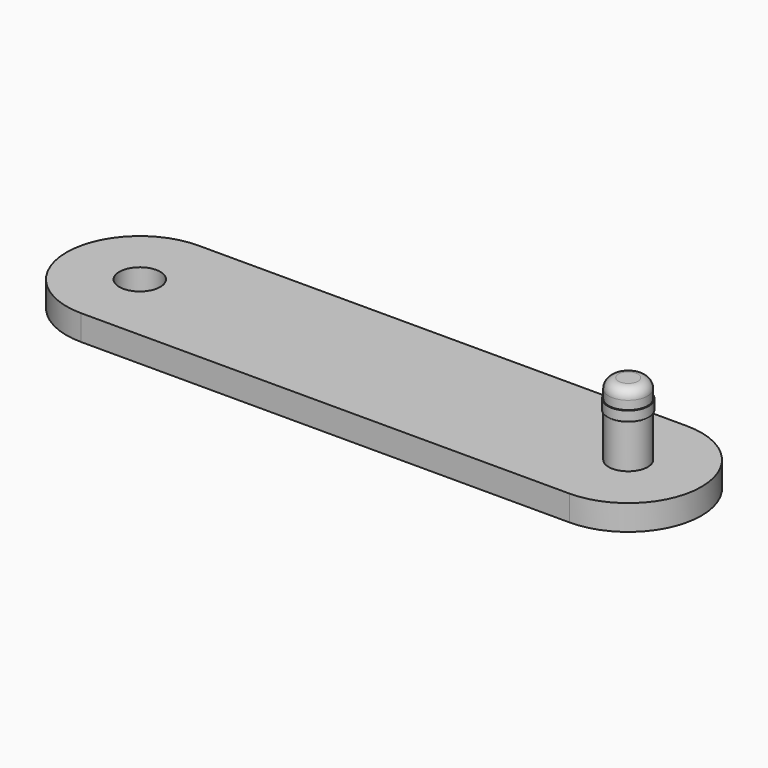
from build123d import *

# Parameters (mm, degrees)
F0_R     = 2
F1_DEPTH = 10
F0_R_2   = 2.1
F2_DEPTH = 2.6
F4_R     = 1
F5_W     = 2.1
F5_H     = 1


with BuildPart() as f1:
    # F0 (on Top) → F1 (new body)
    with BuildSketch(Plane.XY):
        with Locations((25, 0)):
            Circle(F0_R)
    extrude(amount=F1_DEPTH)

    # F0 (on Top) → F2 (join)
    with BuildSketch(Plane.XY):
        with BuildLine():
            Line((25, 7.5), (-25, 7.5))
            ThreePointArc((-25, 7.5), (-32.5, 0), (-25, -7.5))
            Line((-25, -7.5), (25, -7.5))
            ThreePointArc((25, -7.5), (32.5, 0), (25, 7.5))
        make_face()
        with Locations((-25, 0)):
            Circle(F0_R_2, mode=Mode.SUBTRACT)
        with Locations((25, 0)):
            Circle(F0_R, mode=Mode.SUBTRACT)
    extrude(amount=F2_DEPTH)

    # F4
    f4_edges = [f1.edges().sort_by_distance(p)[0] for p in [
        (23, 0, 10),
    ]]
    fillet(f4_edges, radius=F4_R)

    # F5 (on offset) → F6 (revolve)
    with BuildSketch(Plane.YZ.offset(25)):
        with Locations((-1.05, 7.6208)):
            Rectangle(F5_W, F5_H)
    revolve(axis=Axis((25, 0, 7.6208), (0, 0, -1)))


solid = f1.part
